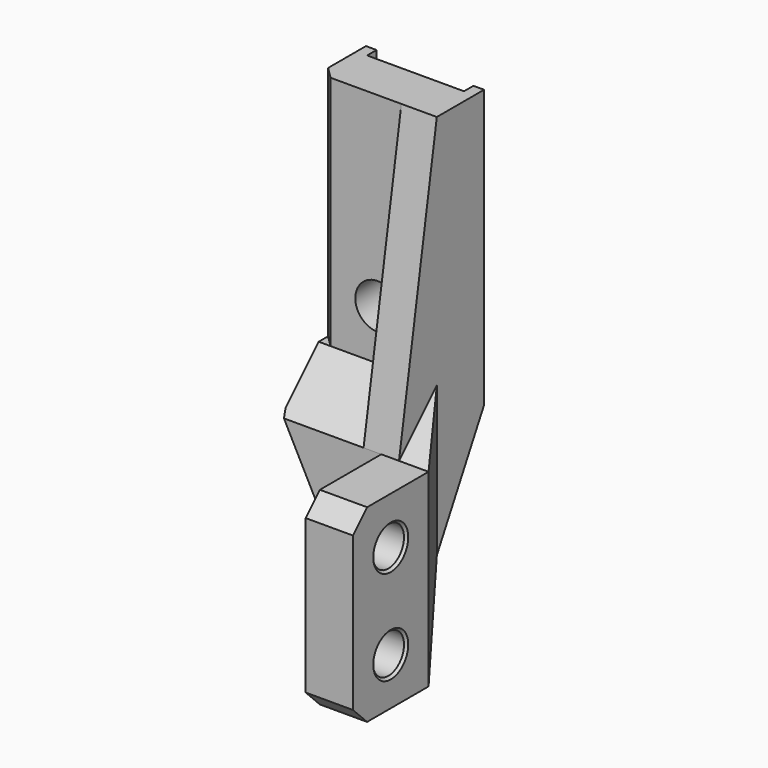
from build123d import *

# Parameters (mm, degrees)
CYLINDER004_R                       = 1.9
CYLINDER004_DEPTH                   = 10
BOX011_W                            = 8.2
BOX011_H                            = 24
BOX011_DEPTH                        = 5
BOX012_W                            = 15
BOX012_H                            = 21
BOX012_DEPTH                        = 17
CHAMFER013_SIZE2                    = 16.5
CHAMFER013_SIZE                     = 9
BOX010_W                            = 12.5
BOX010_H                            = 21.5
BOX010_DEPTH                        = 10
CHAMFER009_SIZE2                    = 2.5
CHAMFER009_SIZE                     = 4
BOX008_W                            = 12.5
BOX008_H                            = 20
BOX008_DEPTH                        = 9
CHAMFER010_SIZE                     = 4
CHAMFER012_SIZE2                    = 8.5
CHAMFER012_SIZE                     = 16.5
BOX013_W                            = 3
BOX013_H                            = 24.5
BOX013_DEPTH                        = 5
CHAMFER023004_SIZE2                 = 24
CHAMFER023004_SIZE                  = 4
BOX009_W                            = 10
BOX009_H                            = 23.5
BOX009_DEPTH                        = 5
CHAMFER023003_SIZE                  = 1
CYLINDER002_R                       = 1.65
CYLINDER002_DEPTH                   = 10
CYLINDER003_R                       = 1.65
CYLINDER003_DEPTH                   = 10
BOX007_W                            = 4
BOX007_H                            = 16
BOX007_DEPTH                        = 8
CHAMFER011_SIZE                     = 1.5
CHAMFER023006002_SIZE               = 0.4
CHAMFER023006003_SIZE               = 0.2
CHAMFER023006003001_PLACEMENT_ANGLE = 90


with BuildPart() as cylinder004:
    # Cylinder004 → Cylinder004 (new body)
    with BuildSketch(Plane(origin=(-3.5, -12.25, 10), x_dir=(1, 0, 0), z_dir=(0, 0, 1))):
        Circle(CYLINDER004_R)
    extrude(amount=CYLINDER004_DEPTH)


with BuildPart() as cube011:
    # Box011 → Box011 (new body)
    with BuildSketch(Plane(origin=(-7.6, -28.5, 16), x_dir=(1, 0, 0), z_dir=(0, 0, 1))):
        with Locations((4.1, 12)):
            Rectangle(BOX011_W, BOX011_H)
    extrude(amount=BOX011_DEPTH)


with BuildPart() as chamfer013:
    # Box012 → Box012 (new body)
    with BuildSketch(Plane(origin=(-10.8, -4.5, 8), x_dir=(1, 0, 0), z_dir=(0, 0, 1))):
        with Locations((7.5, 10.5)):
            Rectangle(BOX012_W, BOX012_H)
    extrude(amount=BOX012_DEPTH)

    # Chamfer013
    chamfer013_edges = [chamfer013.edges().sort_by_distance(p)[0] for p in [
        (-3.3, -4.5, 8),
    ]]
    chamfer013_side = chamfer013.faces().sort_by_distance((-3.3, -4.5, 16.5))[0]
    chamfer(chamfer013_edges, length=CHAMFER013_SIZE, length2=CHAMFER013_SIZE2, reference=chamfer013_side)


with BuildPart() as chamfer009:
    # Box010 → Box010 (new body)
    with BuildSketch(Plane(origin=(1.5, -9.5, 8), x_dir=(1, 0, 0), z_dir=(0, 0, 1))):
        with Locations((6.25, 10.75)):
            Rectangle(BOX010_W, BOX010_H)
    extrude(amount=BOX010_DEPTH)

    # Chamfer009
    chamfer009_edges = [chamfer009.edges().sort_by_distance(p)[0] for p in [
        (1.5, 1.25, 8),
    ]]
    chamfer009_side = chamfer009.faces().sort_by_distance((1.5, 1.25, 13))[0]
    chamfer(chamfer009_edges, length=CHAMFER009_SIZE, length2=CHAMFER009_SIZE2, reference=chamfer009_side)


with BuildPart() as cut003001004:
    # Box008 → Box008 (new body)
    with BuildSketch(Plane(origin=(-8.5, -8, 8), x_dir=(1, 0, 0), z_dir=(0, 0, 1))):
        with Locations((6.25, 10)):
            Rectangle(BOX008_W, BOX008_H)
    extrude(amount=BOX008_DEPTH)

    # Chamfer010
    chamfer010_edges = [cut003001004.edges().sort_by_distance(p)[0] for p in [
        (-2.25, -8, 8),
    ]]
    chamfer(chamfer010_edges, length=CHAMFER010_SIZE)

    # Cut003001002: cut Chamfer009
    add(chamfer009.part, mode=Mode.SUBTRACT)

    # Chamfer012
    chamfer012_edges = [cut003001004.edges().sort_by_distance(p)[0] for p in [
        (-8.5, 12, 12.5),
    ]]
    chamfer012_side = cut003001004.faces().sort_by_distance((-8.5, 2.403101, 12.647287))[0]
    chamfer(chamfer012_edges, length=CHAMFER012_SIZE, length2=CHAMFER012_SIZE2, reference=chamfer012_side)

    # Cut003001004: cut Chamfer013
    add(chamfer013.part, mode=Mode.SUBTRACT)


with BuildPart() as chamfer023004:
    # Box013 → Box013 (new body)
    with BuildSketch(Plane(origin=(-1.5, -3.5, 13), x_dir=(1, 0, 0), z_dir=(0, 0, -1))):
        with Locations((1.5, 12.25)):
            Rectangle(BOX013_W, BOX013_H)
    extrude(amount=BOX013_DEPTH)

    # Chamfer023004
    chamfer023004_edges = [chamfer023004.edges().sort_by_distance(p)[0] for p in [
        (0, -28, 8),
    ]]
    chamfer023004_side = chamfer023004.faces().sort_by_distance((0, -28, 10.5))[0]
    chamfer(chamfer023004_edges, length=CHAMFER023004_SIZE, length2=CHAMFER023004_SIZE2, reference=chamfer023004_side)


with BuildPart() as chamfer023003:
    # Box009 → Box009 (new body)
    with BuildSketch(Plane(origin=(-8.5, -28, 12), x_dir=(1, 0, 0), z_dir=(0, 0, 1))):
        with Locations((5, 11.75)):
            Rectangle(BOX009_W, BOX009_H)
    extrude(amount=BOX009_DEPTH)

    # Chamfer023003
    chamfer023003_edges = [chamfer023003.edges().sort_by_distance(p)[0] for p in [
        (-8.5, -16.25, 12),
        (1.5, -16.25, 12),
    ]]
    chamfer(chamfer023003_edges, length=CHAMFER023003_SIZE)


with BuildPart() as cylinder002:
    # Cylinder002 → Cylinder002 (new body)
    with BuildSketch(Plane(origin=(0, 0, 4), x_dir=(0, 0, -1), z_dir=(1, 0, 0))):
        Circle(CYLINDER002_R)
    extrude(amount=CYLINDER002_DEPTH)


with BuildPart() as fusion001003:
    # Cylinder003 → Cylinder003 (new body)
    with BuildSketch(Plane(origin=(0, 8, 4), x_dir=(0, 0, -1), z_dir=(1, 0, 0))):
        Circle(CYLINDER003_R)
    extrude(amount=CYLINDER003_DEPTH)

    # Fusion001003: union Cylinder002
    add(cylinder002.part)


with BuildPart() as chamfer023006003001:
    # Box007 → Box007 (new body)
    with BuildSketch(Plane(origin=(0, -4, 0), x_dir=(1, 0, 0), z_dir=(0, 0, 1))):
        with Locations((2, 8)):
            Rectangle(BOX007_W, BOX007_H)
    extrude(amount=BOX007_DEPTH)

    # Chamfer011
    chamfer011_edges = [chamfer023006003001.edges().sort_by_distance(p)[0] for p in [
        (2, -4, 0),
        (2, 12, 0),
    ]]
    chamfer(chamfer011_edges, length=CHAMFER011_SIZE)

    # Cut003001003: cut Fusion001003
    add(fusion001003.part, mode=Mode.SUBTRACT)

    # Fusion001004: union Cut003001004, Chamfer023004, Chamfer023003
    add(cut003001004.part)
    add(chamfer023004.part)
    add(chamfer023003.part)

    # Cut003001015: cut Cube011
    add(cube011.part, mode=Mode.SUBTRACT)

    # Cut003001016: cut Cylinder004
    add(cylinder004.part, mode=Mode.SUBTRACT)

    # Chamfer023006002
    chamfer023006002_edges = [chamfer023006003001.edges().sort_by_distance(p)[0] for p in [
        (-5.4, -12.25, 16),
    ]]
    chamfer(chamfer023006002_edges, length=CHAMFER023006002_SIZE)

    # Chamfer023006003
    chamfer023006003_edges = [chamfer023006003001.edges().sort_by_distance(p)[0] for p in [
        (0, 8, 5.65),
        (0, 0, 5.65),
        (4, 8, 5.65),
        (4, 0, 5.65),
    ]]
    chamfer(chamfer023006003_edges, length=CHAMFER023006003_SIZE)


with BuildPart() as chamfer023006003001_1:
    # Chamfer023006003001 placement: moved
    add(chamfer023006003001.part.rotate(Axis((0, 0, 0), (-1, 0, 0)), CHAMFER023006003001_PLACEMENT_ANGLE))


solid = chamfer023006003001_1.part
